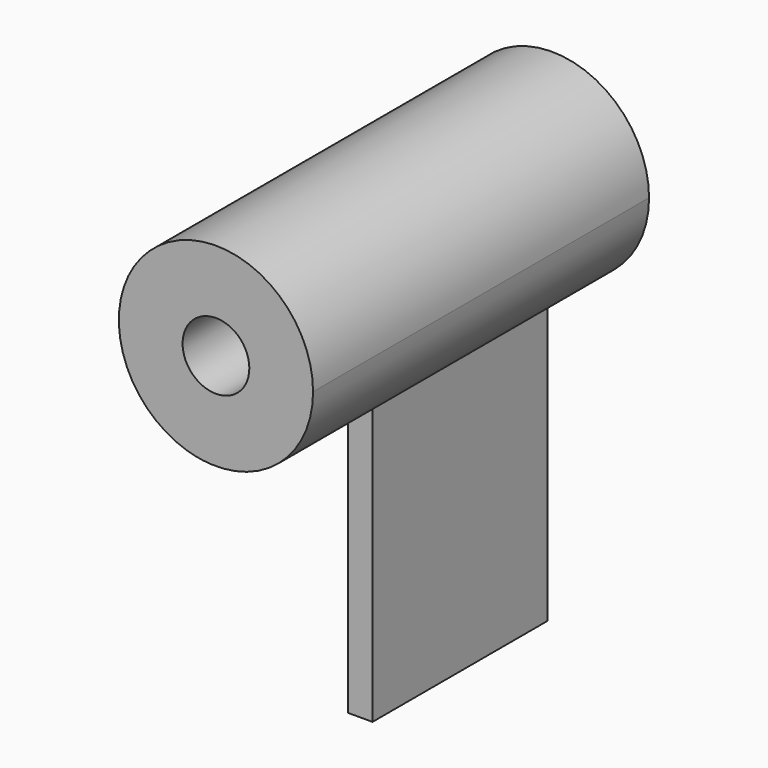
from build123d import *

# Parameters (mm, degrees)
F1_DEPTH = 86.5
F2_DEPTH = 45
F3_R     = 6.874276
F4_DEPTH = 100


with BuildPart() as f1:
    # F0 (on Front) → F1 (new body)
    with BuildSketch(Plane.XZ):
        with BuildLine():
            ThreePointArc((-26.142528, 15.448414), (-11.385953, 20.949011), (-5.185627, 35.42551))
            ThreePointArc((-5.185627, 35.42551), (-37.035985, 51.536655), (-31.142528, 16.333225))
            ThreePointArc((-31.142528, 16.333225), (-28.670722, 15.731498), (-26.142528, 15.448414))
        make_face()
    extrude(amount=F1_DEPTH)

    # F0 (on Front) → F2 (join)
    with BuildSketch(Plane.XZ):
        with BuildLine():
            ThreePointArc((-26.142528, 15.448414), (-28.670722, 15.731498), (-31.142528, 16.333225))
            Line((-31.142528, 16.333225), (-31.142528, -48.122729))
            Line((-31.142528, -48.122729), (-26.142528, -48.122729))
            Line((-26.142528, -48.122729), (-26.142528, 15.448414))
        make_face()
    extrude(amount=F2_DEPTH)

    # F3 (on face) → F4 (cut)
    with BuildSketch(Plane.XZ.offset(86.5)):
        with Locations((-25.185627, 35.42551)):
            Circle(F3_R)
    extrude(amount=-F4_DEPTH, mode=Mode.SUBTRACT)


solid = f1.part
